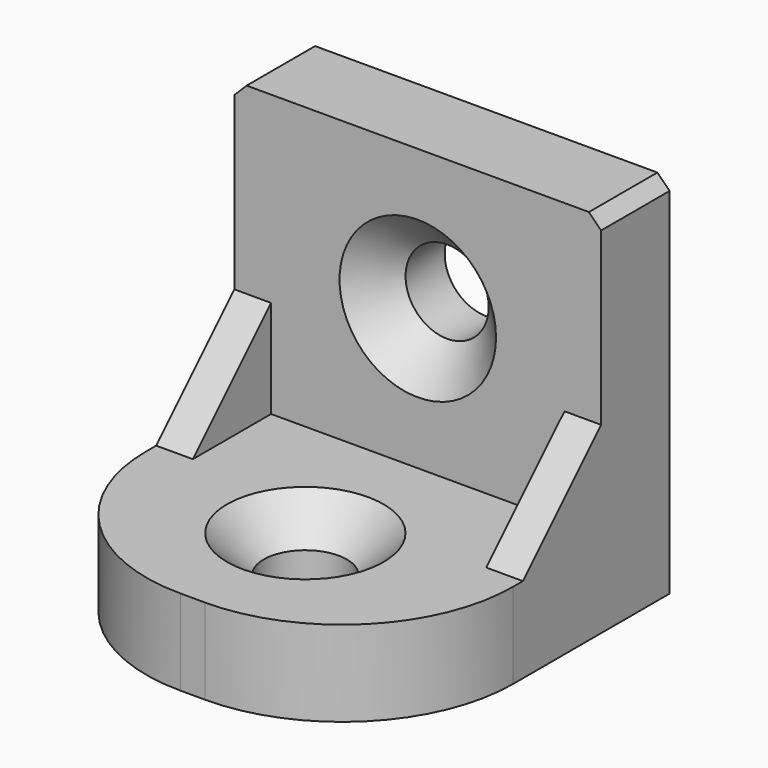
from build123d import *

# Parameters (mm, degrees)
SKETCH_W        = 30
SKETCH_H        = 30
PAD_DEPTH       = 30
FILLET_R        = 14
BOX_W           = 30
BOX_H           = 30
BOX_DEPTH       = 30
SKETCH001_R     = 3.4
POCKET_DEPTH    = 7
SKETCH002_R     = 3.4
POCKET001_DEPTH = 7
CHAMFER_SIZE    = 3
CHAMFER001_SIZE = 1
SKETCH003_W     = 3
SKETCH003_H     = 8
PAD001_DEPTH    = 8
POCKET002_DEPTH = 30.001


with BuildPart() as part:
    # Sketch → Pad (new body)
    with BuildSketch(Plane.XZ):
        with Locations((0, 15)):
            Rectangle(SKETCH_W, SKETCH_H)
    extrude(amount=PAD_DEPTH)

    # Fillet
    fillet_edges = [part.edges().sort_by_distance(p)[0] for p in [
        (15, -30, 15),
        (-15, -30, 15),
    ]]
    fillet(fillet_edges, radius=FILLET_R)

    # Box → Box (cut)
    with BuildSketch(Plane(origin=(-15, -7, 7), x_dir=(1, 0, 0), z_dir=(0, -1, 0))):
        with Locations((15, 15)):
            Rectangle(BOX_W, BOX_H)
    extrude(amount=BOX_DEPTH, mode=Mode.SUBTRACT)

    # Sketch001 (on Face6 of Box) → Pocket (cut)
    with BuildSketch(Plane(origin=(0, -7, 18.5), x_dir=(1, 0, 0), z_dir=(0, -1, 0))):
        Circle(SKETCH001_R)
    extrude(amount=-POCKET_DEPTH, mode=Mode.SUBTRACT)

    # Sketch002 (on Face5 of Pocket) → Pocket001 (cut)
    with BuildSketch(Plane(origin=(0, -18.5, 7), x_dir=(-1, 0, 0), z_dir=(0, 0, 1))):
        Circle(SKETCH002_R)
    extrude(amount=-POCKET001_DEPTH, mode=Mode.SUBTRACT)

    # Chamfer
    chamfer_edges = [part.edges().sort_by_distance(p)[0] for p in [
        (-3.4, -7, 18.5),
        (3.4, -18.5, 7),
    ]]
    chamfer(chamfer_edges, length=CHAMFER_SIZE)

    # Chamfer001
    chamfer001_edges = [part.edges().sort_by_distance(p)[0] for p in [
        (15, -3.5, 30),
        (-15, -3.5, 30),
    ]]
    chamfer(chamfer001_edges, length=CHAMFER001_SIZE)

    # Sketch003 (on Face1 of Chamfer001) → Pad001 (join)
    with BuildSketch(Plane(origin=(0, -7, 7), x_dir=(1, 0, 0), z_dir=(0, -1, 0))):
        with Locations((13.5, 4)):
            Rectangle(SKETCH003_W, SKETCH003_H)
        with Locations((-13.5, 4)):
            Rectangle(SKETCH003_W, SKETCH003_H)
    extrude(amount=PAD001_DEPTH)

    # Sketch004 (on Face22 of Pad001) → Pocket002 (cut, through all)
    with BuildSketch(Plane(origin=(15, -7, 7), x_dir=(0, 0, 1), z_dir=(1, 0, 0))):
        Polygon((0, 8), (8, 0), (8, 8), align=None)
    extrude(amount=-POCKET002_DEPTH, mode=Mode.SUBTRACT)


solid = part.part
